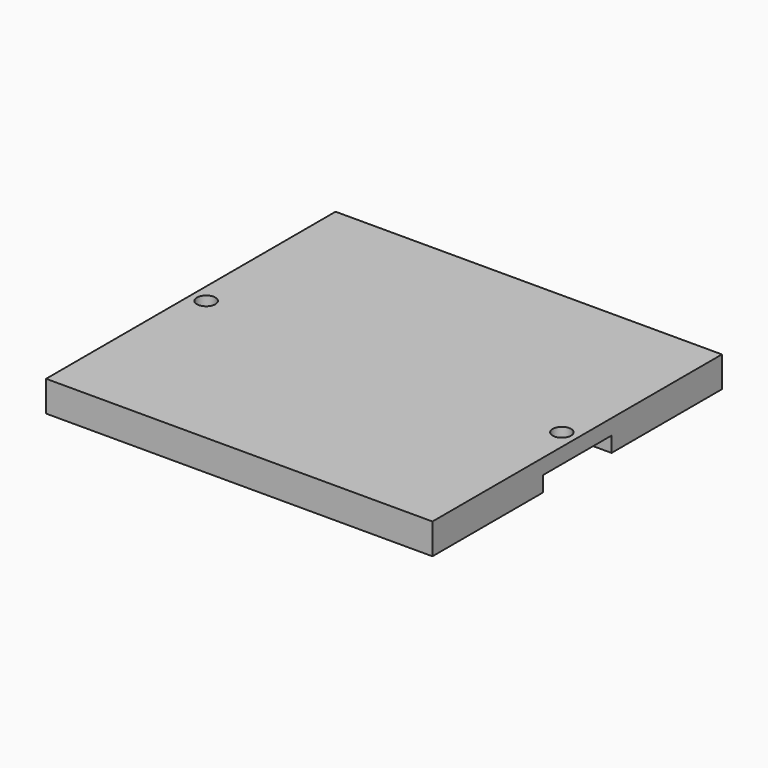
from build123d import *

# Parameters (mm, degrees)
F0_W     = 126
F0_H     = 118
F0_R     = 3
F1_DEPTH = 10
F2_W     = 28
F2_H     = 5
F3_DEPTH = 126.001


with BuildPart() as f1:
    # F0 (on Top) → F1 (new body)
    with BuildSketch(Plane.XY):
        Rectangle(F0_W, F0_H)
        with Locations((-58, 0)):
            Circle(F0_R, mode=Mode.SUBTRACT)
        with Locations((58, 0)):
            Circle(F0_R, mode=Mode.SUBTRACT)
    extrude(amount=F1_DEPTH)

    # F2 (on face) → F3 (cut, through all)
    with BuildSketch(Plane.YZ.offset(63)):
        with Locations((0, 2.5)):
            Rectangle(F2_W, F2_H)
    extrude(amount=-F3_DEPTH, mode=Mode.SUBTRACT)


solid = f1.part
